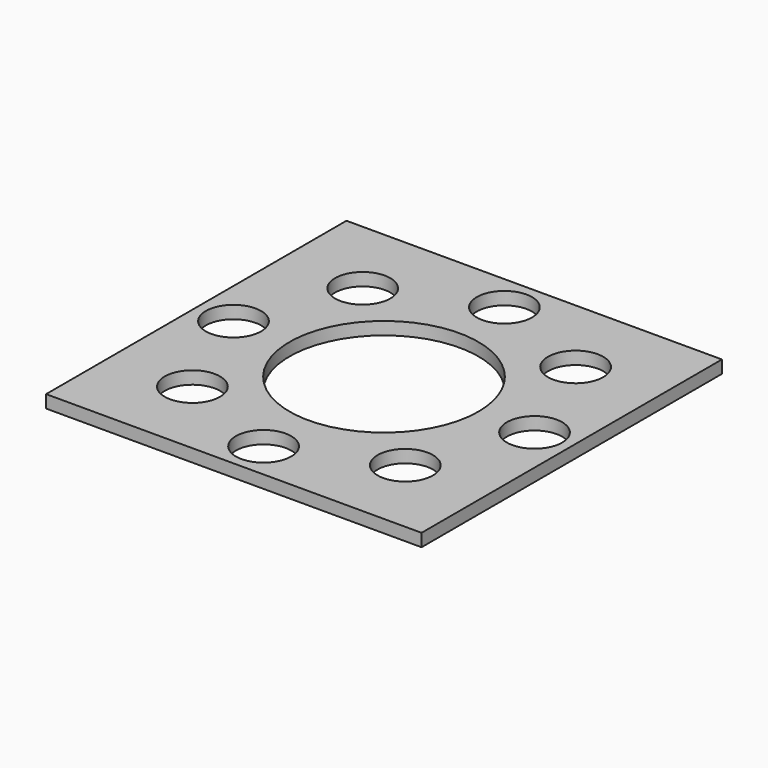
from build123d import *

# Parameters (mm, degrees)
F0_R     = 4.344762
F1_DEPTH = 2


with BuildPart() as f1:
    # F0 (on Top) → F1 (new body)
    with BuildSketch(Plane.XY):
        with BuildLine():
            Line((19.808865, 19.808865), (29.518805, 29.518805))
            Line((29.518805, 29.518805), (-29.518805, 29.518805))
            Line((-29.518805, 29.518805), (-29.518805, -29.518805))
            Line((-29.518805, -29.518805), (-19.808865, -19.808865))
            ThreePointArc((-19.808865, -19.808865), (-19.808865, -13.664443), (-13.664443, -13.664443))
            Line((-13.664443, -13.664443), (-10.496521, -10.496521))
            ThreePointArc((-10.496521, -10.496521), (-10.496521, 10.496521), (10.496521, 10.496521))
            Line((10.496521, 10.496521), (13.664443, 13.664443))
            ThreePointArc((13.664443, 13.664443), (13.664443, 19.808865), (19.808865, 19.808865))
        make_face()
        with Locations((-23.669204, 0)):
            Circle(F0_R, mode=Mode.SUBTRACT)
        with Locations((-16.736654, 16.736654)):
            Circle(F0_R, mode=Mode.SUBTRACT)
        with Locations((0, 23.669204)):
            Circle(F0_R, mode=Mode.SUBTRACT)
        with BuildLine():
            Line((29.518805, -29.518805), (29.518805, 29.518805))
            Line((29.518805, 29.518805), (19.808865, 19.808865))
            ThreePointArc((19.808865, 19.808865), (20.750692, 18.399323), (21.081417, 16.736654))
            ThreePointArc((21.081417, 16.736654), (18.399323, 12.722617), (13.664443, 13.664443))
            Line((13.664443, 13.664443), (10.496521, 10.496521))
            ThreePointArc((10.496521, 10.496521), (13.714365, 5.680676), (14.844322, 0))
            ThreePointArc((14.844322, 0), (5.680676, -13.714365), (-10.496521, -10.496521))
            Line((-10.496521, -10.496521), (-13.664443, -13.664443))
            ThreePointArc((-13.664443, -13.664443), (-12.722617, -15.073986), (-12.391892, -16.736654))
            ThreePointArc((-12.391892, -16.736654), (-15.073986, -20.750692), (-19.808865, -19.808865))
            Line((-19.808865, -19.808865), (-29.518805, -29.518805))
            Line((-29.518805, -29.518805), (29.518805, -29.518805))
        make_face()
        with Locations((0, -23.669204)):
            Circle(F0_R, mode=Mode.SUBTRACT)
        with Locations((16.736654, -16.736654)):
            Circle(F0_R, mode=Mode.SUBTRACT)
        with Locations((23.669204, 0)):
            Circle(F0_R, mode=Mode.SUBTRACT)
    extrude(amount=F1_DEPTH)


solid = f1.part
